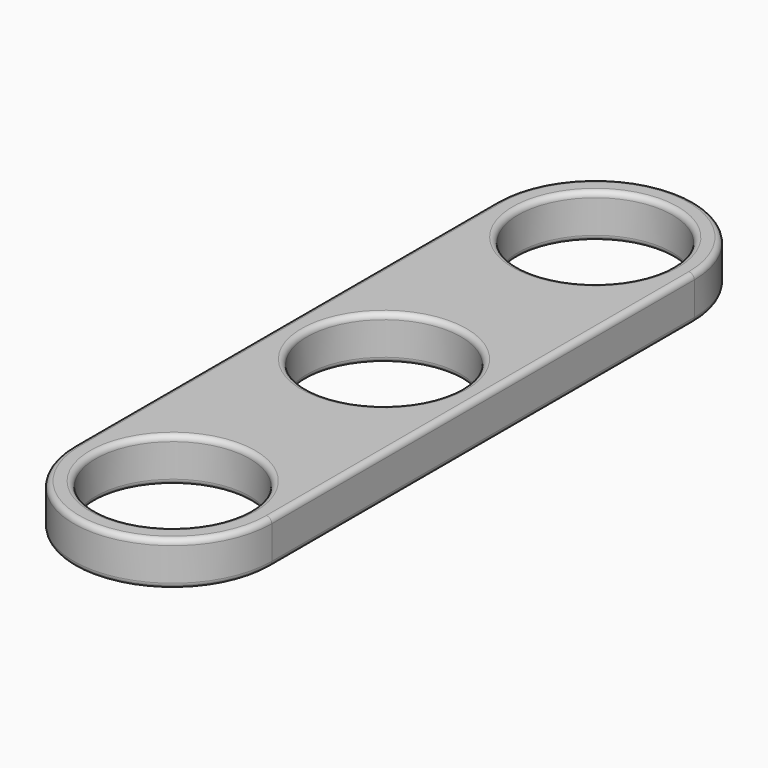
from build123d import *

# Parameters (mm, degrees)
SKETCH002_R  = 11.1125
PAD002_DEPTH = 6.35
FILLET004_R  = 0.79375
FILLET005_R  = 0.79375


with BuildPart() as part:
    # Sketch002 → Pad002 (new body)
    with BuildSketch(Plane.XY):
        with BuildLine():
            ThreePointArc((14.2875, 38.1), (0, 52.3875), (-14.2875, 38.1))
            Line((-14.2875, 38.1), (-14.2875, -38.1))
            ThreePointArc((-14.2875, -38.1), (0, -52.3875), (14.2875, -38.1))
            Line((14.2875, 38.1), (14.2875, -38.1))
        make_face()
        with Locations((0, 38.1)):
            Circle(SKETCH002_R, mode=Mode.SUBTRACT)
        with Locations((0, -38.1)):
            Circle(SKETCH002_R, mode=Mode.SUBTRACT)
        Circle(SKETCH002_R, mode=Mode.SUBTRACT)
    extrude(amount=PAD002_DEPTH)

    # Fillet004
    fillet004_edges = [part.edges().sort_by_distance(p)[0] for p in [
        (0, 52.3875, 0),
        (-14.2875, 0, 0),
        (0, -52.3875, 0),
        (14.2875, 0, 0),
        (-11.1125, 0, 0),
        (-11.1125, -38.1, 0),
        (-11.1125, 38.1, 0),
    ]]
    fillet(fillet004_edges, radius=FILLET004_R)

    # Fillet005
    fillet005_edges = [part.edges().sort_by_distance(p)[0] for p in [
        (0, 52.3875, 6.35),
        (-14.2875, 0, 6.35),
        (0, -52.3875, 6.35),
        (14.2875, 0, 6.35),
        (-11.1125, 0, 6.35),
        (-11.1125, -38.1, 6.35),
        (-11.1125, 38.1, 6.35),
    ]]
    fillet(fillet005_edges, radius=FILLET005_R)


solid = part.part
